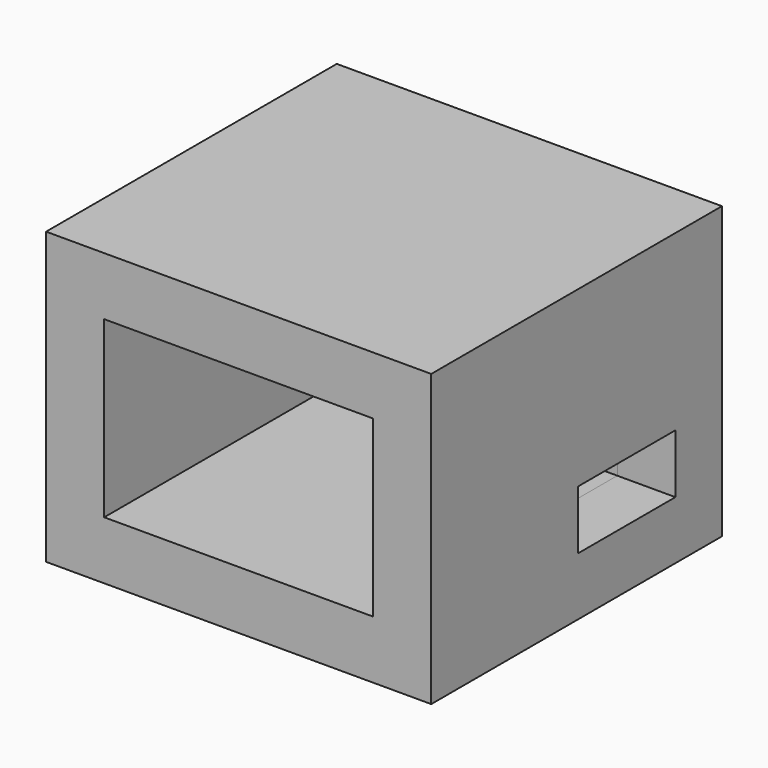
from build123d import *

# Parameters (mm, degrees)
F0_W     = 53
F0_H     = 40
F1_DEPTH = 50
F2_T     = -8
F3_W     = 16.727269
F3_H     = 8.102577
F4_DEPTH = 8


with BuildPart() as f1:
    # F0 (on Front) → F1 (new body)
    with BuildSketch(Plane.XZ):
        with Locations((13.020575, 3.897423)):
            Rectangle(F0_W, F0_H)
    extrude(amount=F1_DEPTH)

    # F2
    f2_openings = [f1.faces().sort_by_distance(p)[0] for p in [
        (13.020575, -50, 3.897423),
    ]]
    offset(amount=F2_T, openings=f2_openings)

    # F3 (on face) → F4 (cut)
    with BuildSketch(Plane.YZ.offset(39.520575)):
        with Locations((-16.363634, -4.051289)):
            Rectangle(F3_W, F3_H)
    extrude(amount=-F4_DEPTH, mode=Mode.SUBTRACT)


solid = f1.part
